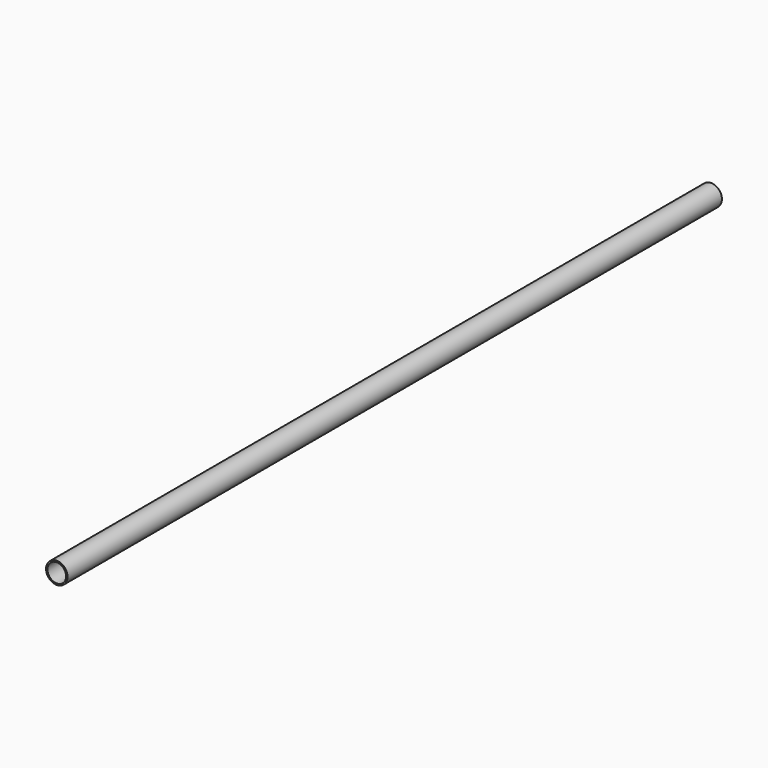
from build123d import *

# Parameters (mm, degrees)
F0_R     = 6
F1_DEPTH = 457.2
F2_R     = 5.20625
F3_DEPTH = 457.201


with BuildPart() as f1:
    # F0 (on Front) → F1 (new body)
    with BuildSketch(Plane.XZ):
        Circle(F0_R)
    extrude(amount=F1_DEPTH)

    # F2 (on face) → F3 (cut, through all)
    with BuildSketch(Plane(origin=(0, 0, 0), x_dir=(-1, 0, 0), z_dir=(0, 1, 0))):
        Circle(F2_R)
    extrude(amount=-F3_DEPTH, mode=Mode.SUBTRACT)


solid = f1.part
